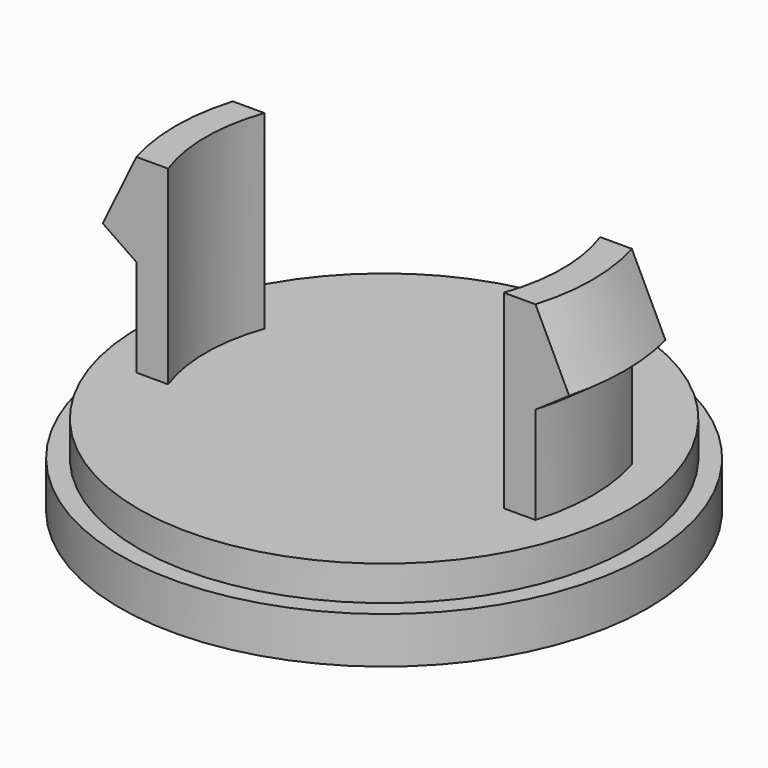
from build123d import *

# Parameters (mm, degrees)
SKETCH001_W   = 28.911368
SKETCH001_H   = 11.888076
SKETCH001_W_2 = 28.673414
SKETCH001_H_2 = 9.741194
POCKET_DEPTH  = 8.2


with BuildPart() as part:
    # Sketch → Revolution (revolve)
    with BuildSketch(Plane.XZ):
        Polygon((0, 0), (11.4, 0), (11.4, 2), (10.6, 2), (10.6, 3.5), (9, 3.5), (9, 7.7), (10.4, 8.7), (9, 11.7), (7.7, 11.7), (7.7, 3.5), (0, 3.5), align=None)
    revolve(axis=Axis((0, 0, 0), (0, 0, 1)))

    # Sketch001 (on Face9 of Revolution) → Pocket (cut)
    with BuildSketch(Plane(origin=(0, 0, 11.7), x_dir=(-1, 0, 0), z_dir=(0, 0, 1))):
        with Locations((-0.075645, 8.544038)):
            Rectangle(SKETCH001_W, SKETCH001_H)
        with Locations((0.162309, -7.470597)):
            Rectangle(SKETCH001_W_2, SKETCH001_H_2)
    extrude(amount=-POCKET_DEPTH, mode=Mode.SUBTRACT)


solid = part.part
